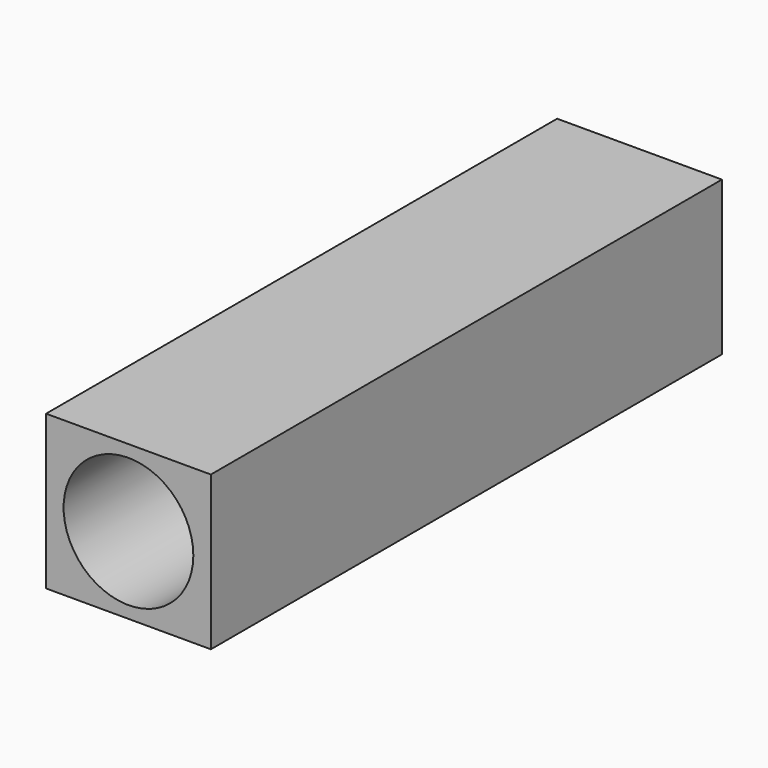
from build123d import *

# Parameters (mm, degrees)
F0_W     = 69.911994
F0_H     = 65.282062
F0_R     = 27.517933
F1_DEPTH = 271.018
F2_W     = 51.579502
F2_H     = 11.037817
F3_DEPTH = 68.326


with BuildPart() as f1:
    # F0 (on Front) → F1 (new body)
    with BuildSketch(Plane.XZ):
        Rectangle(F0_W, F0_H)
        Circle(F0_R, mode=Mode.SUBTRACT)
    extrude(amount=F1_DEPTH)

    # F2 (on Right) → F3 (cut)
    with BuildSketch(Plane.YZ):
        with Locations((-52.384639, 5.518908)):
            Rectangle(F2_W, F2_H)
    extrude(amount=-F3_DEPTH, mode=Mode.SUBTRACT)


solid = f1.part
